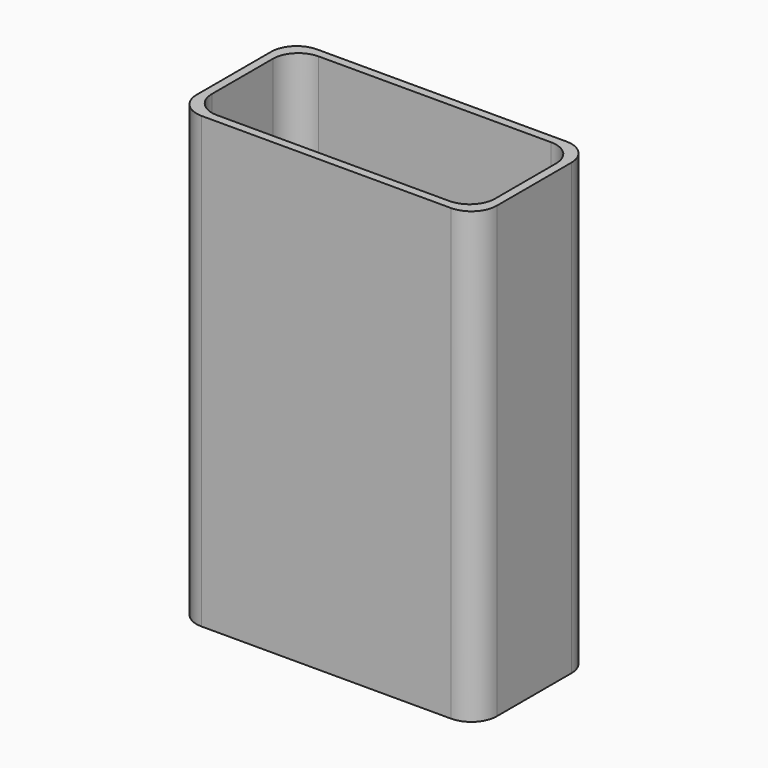
from build123d import *

# Parameters (mm, degrees)
F1_DEPTH = 53
F2_DEPTH = 1
F3_W     = 5
F3_H     = 4
F4_DEPTH = 53.001


with BuildPart() as f1:
    # F0 (on Top) → F1 (new body)
    with BuildSketch(Plane.XY):
        with BuildLine():
            Line((-14.7, -8.5), (14.7, -8.5))
            ThreePointArc((14.7, -8.5), (16.82132, -7.62132), (17.7, -5.5))
            Line((17.7, -5.5), (17.7, 5.5))
            ThreePointArc((17.7, 5.5), (16.82132, 7.62132), (14.7, 8.5))
            Line((14.7, 8.5), (-14.7, 8.5))
            ThreePointArc((-14.7, 8.5), (-16.82132, 7.62132), (-17.7, 5.5))
            Line((-17.7, 5.5), (-17.7, -5.5))
            ThreePointArc((-17.7, -5.5), (-16.82132, -7.62132), (-14.7, -8.5))
        make_face()
        with BuildLine():
            Line((-13.7, 7.5), (13.7, 7.5))
            ThreePointArc((13.7, 7.5), (15.82132, 6.62132), (16.7, 4.5))
            Line((16.7, 4.5), (16.7, -4.5))
            ThreePointArc((16.7, -4.5), (15.82132, -6.62132), (13.7, -7.5))
            Line((13.7, -7.5), (-13.7, -7.5))
            ThreePointArc((-13.7, -7.5), (-15.82132, -6.62132), (-16.7, -4.5))
            Line((-16.7, -4.5), (-16.7, 4.5))
            ThreePointArc((-16.7, 4.5), (-15.82132, 6.62132), (-13.7, 7.5))
        make_face(mode=Mode.SUBTRACT)
    extrude(amount=F1_DEPTH)

    # F0 (on Top) → F2 (join)
    with BuildSketch(Plane.XY):
        with BuildLine():
            ThreePointArc((16.7, 4.5), (15.82132, 6.62132), (13.7, 7.5))
            Line((13.7, 7.5), (-13.7, 7.5))
            ThreePointArc((-13.7, 7.5), (-15.82132, 6.62132), (-16.7, 4.5))
            Line((-16.7, 4.5), (-16.7, -4.5))
            ThreePointArc((-16.7, -4.5), (-15.82132, -6.62132), (-13.7, -7.5))
            Line((-13.7, -7.5), (13.7, -7.5))
            ThreePointArc((13.7, -7.5), (15.82132, -6.62132), (16.7, -4.5))
            Line((16.7, -4.5), (16.7, 4.5))
        make_face()
    extrude(amount=F2_DEPTH)

    # F3 (on face) → F4 (cut, through all)
    with BuildSketch(Plane(origin=(0, 0, 0), x_dir=(1, 0, 0), z_dir=(0, 0, -1))):
        with Locations((2.2, 0)):
            Rectangle(F3_W, F3_H)
    extrude(amount=-F4_DEPTH, mode=Mode.SUBTRACT)


solid = f1.part
